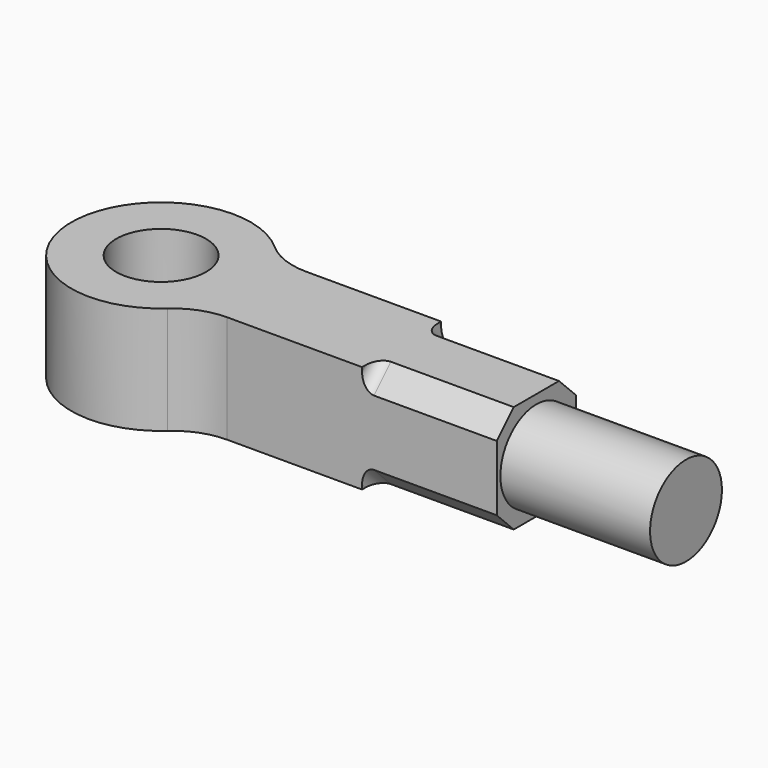
from build123d import *

# Parameters (mm, degrees)
SKETCH_R        = 15
PAD_DEPTH       = 36
SKETCH001_R     = 15
PAD001_DEPTH    = 50
POCKET002_DEPTH = 45
FILLET_R        = 4
FILLET001_R     = 4


with BuildPart() as part:
    # Sketch → Pad (new body)
    with BuildSketch(Plane.XY):
        with BuildLine():
            ThreePointArc((20.021829, 22.341136), (-29.999994, 0.019609), (19.992607, -22.36729))
            ThreePointArc((35.300511, -16.52309), (27.107731, -18.033819), (19.992607, -22.36729))
            Line((35.300511, -16.52309), (125.352108, -16.52309))
            Line((125.352108, -16.52309), (125.352108, 16.47691))
            Line((125.352108, 16.47691), (35.352108, 16.47691))
            ThreePointArc((20.021829, 22.341136), (27.145303, 17.992999), (35.352108, 16.47691))
        make_face()
        Circle(SKETCH_R, mode=Mode.SUBTRACT)
    extrude(amount=PAD_DEPTH)

    # Sketch001 (on Face2 of Pad) → Pad001 (join)
    with BuildSketch(Plane.YZ.offset(125.352108)):
        with Locations((-0.02309, 18)):
            Circle(SKETCH001_R)
    extrude(amount=PAD001_DEPTH)

    # Sketch008 (on Face3 of Pad001) → Pocket002 (cut)
    with BuildSketch(Plane.YZ.offset(125.352108)):
        Polygon((-16.52309, 36), (-16.52309, 28.928932), (-9.452022, 36), align=None)
        Polygon((-16.52309, 7.071068), (-16.52309, 0), (-9.452022, 0), align=None)
        Polygon((16.52309, 28.975264), (9.452022, 36), (16.47691, 36), align=None)
        Polygon((9.405842, 0), (16.47691, 7.071068), (16.47691, 0), align=None)
    extrude(amount=-POCKET002_DEPTH, mode=Mode.SUBTRACT)

    # Fillet
    fillet_edges = [part.edges().sort_by_distance(p)[0] for p in [
        (80.352108, 12.964466, 32.51057),
        (80.352108, 12.941376, 3.535534),
    ]]
    fillet(fillet_edges, radius=FILLET_R)

    # Fillet001
    fillet001_edges = [part.edges().sort_by_distance(p)[0] for p in [
        (80.352108, -12.987556, 3.535534),
        (80.352108, -12.987556, 32.464466),
    ]]
    fillet(fillet001_edges, radius=FILLET001_R)


solid = part.part
